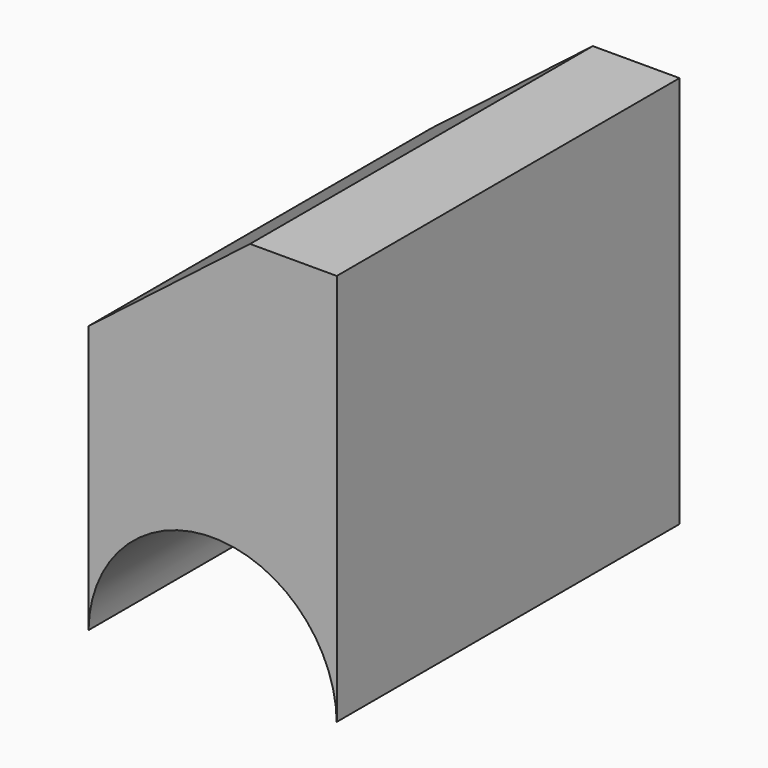
from build123d import *

# Parameters (mm, degrees)
F1_DEPTH = 63.5
F3_DEPTH = 228.6


with BuildPart() as f1:
    # F0 (on Front) → F1 (new body)
    with BuildSketch(Plane.XZ):
        Polygon((18.0522054434, 29.6104028821), (18.0522054434, -10.0675523281), (54.8490285873, -10.6824189425), (54.8490285873, 48.122830689), (41.9995486736, 48.122830689), align=None)
    extrude(amount=F1_DEPTH)

    # F2 (on face) → F3 (cut)
    with BuildSketch(Plane.XZ.offset(63.5)):
        with BuildLine():
            ThreePointArc((54.8490285873, -10.0675523281), (36.4506170154, 8.025994328), (18.0522054434, -10.0675523281))
            Line((18.0522054434, -10.0675523281), (54.8490285873, -10.6824189425))
            Line((54.8490285873, -10.6824189425), (54.8490285873, -10.0675523281))
        make_face()
    extrude(amount=-F3_DEPTH, mode=Mode.SUBTRACT)


solid = f1.part
